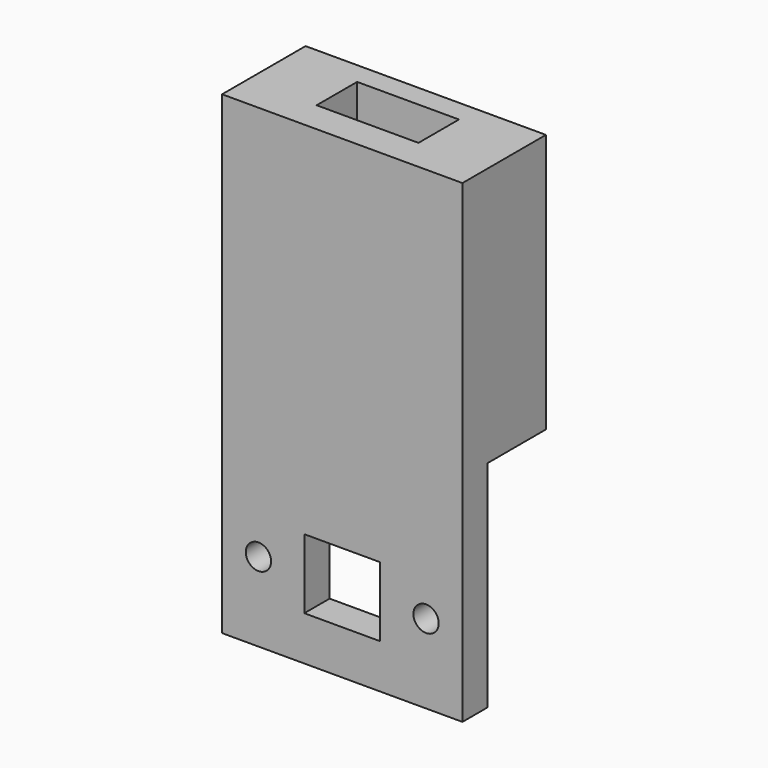
from build123d import *

# Parameters (mm, degrees)
F0_R     = 2
F2_DEPTH = 5
F1_W     = 12
F1_H     = 11
F3_DEPTH = 50.9
F4_W     = 38
F4_H     = 15
F4_H_2   = 5
F5_DEPTH = 50
F6_DEPTH = 9
F7_W     = 16.1
F7_H     = 8
F8_DEPTH = 59.7
F9_DEPTH = 3.5


with BuildPart() as f2:
    # F0 (on Front) → F2 (new body)
    with BuildSketch(Plane.XZ):
        with BuildLine():
            ThreePointArc((-2.5, 0), (0, 2.5), (2.5, 0))
            Line((2.5, 0), (8, 0))
            Line((8, 0), (8, -3.5))
            Line((8, -3.5), (19, -3.5))
            Line((19, -3.5), (19, 12.5))
            Line((19, 12.5), (-19, 12.5))
            Line((-19, 12.5), (-19, 3.5))
            Line((-19, 3.5), (-8, 3.5))
            Line((-8, 3.5), (-8, 0))
            Line((-8, 0), (-2.5, 0))
        make_face()
        with Locations((13.25, 0)):
            Circle(F0_R, mode=Mode.SUBTRACT)
        with BuildLine():
            Line((8, 0), (2.5, 0))
            ThreePointArc((2.5, 0), (0, -2.5), (-2.5, 0))
            Line((-2.5, 0), (-8, 0))
            Line((-8, 0), (-8, 3.5))
            Line((-8, 3.5), (-19, 3.5))
            Line((-19, 3.5), (-19, -12.5))
            Line((-19, -12.5), (19, -12.5))
            Line((19, -12.5), (19, -3.5))
            Line((19, -3.5), (8, -3.5))
            Line((8, -3.5), (8, 0))
        make_face()
        with Locations((-13.25, 0)):
            Circle(F0_R, mode=Mode.SUBTRACT)
    extrude(amount=F2_DEPTH)

    # F1 (on Front) → F3 (cut)
    with BuildSketch(Plane.XZ):
        Rectangle(F1_W, F1_H)
    extrude(amount=F3_DEPTH, mode=Mode.SUBTRACT)

    # F4 (on face) → F5 (join)
    with BuildSketch(Plane.XY.offset(12.5)):
        with Locations((0, 7.5)):
            Rectangle(F4_W, F4_H)
        with Locations((0, -2.5)):
            Rectangle(F4_W, F4_H_2)
    extrude(amount=F5_DEPTH)

    # F6 (cut): a face of the model
    f6_faces = [f2.faces().sort_by_distance(p)[0] for p in [
        (0, 7.5, 12.5),
    ]]
    extrude(f6_faces, amount=-F6_DEPTH, mode=Mode.SUBTRACT)

    # F7 (on face) → F8 (cut)
    with BuildSketch(Plane.XY.offset(62.5)):
        with Locations((0, 4)):
            Rectangle(F7_W, F7_H)
    extrude(amount=-F8_DEPTH, mode=Mode.SUBTRACT)

    # F9 (cut): a face of the model
    f9_faces = [f2.faces().sort_by_distance(p)[0] for p in [
        (0, 15, 42),
    ]]
    extrude(f9_faces, amount=-F9_DEPTH, mode=Mode.SUBTRACT)


solid = f2.part
